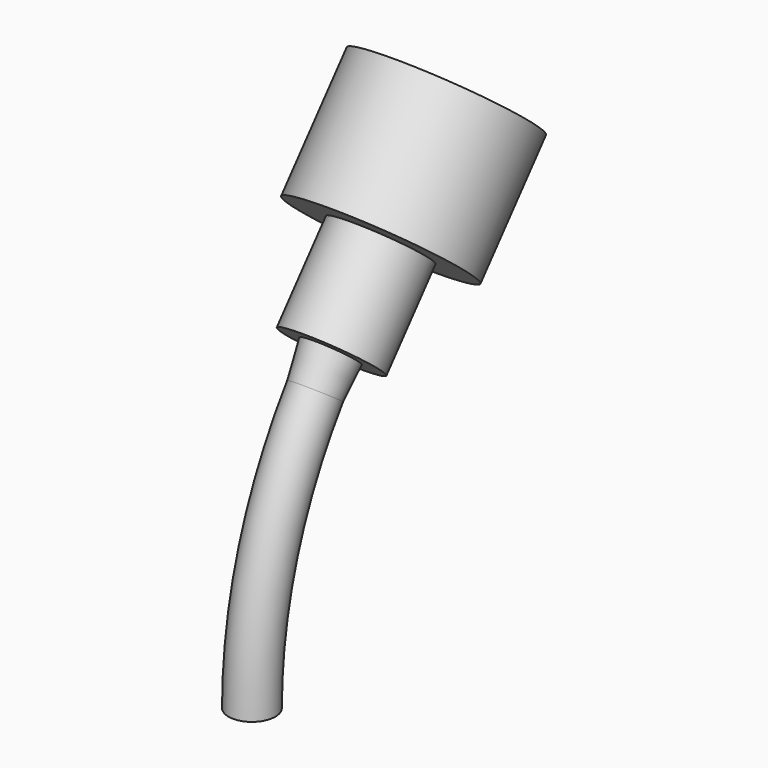
from build123d import *

# Parameters (mm, degrees)
CONE005_ROLL_ANGLE         = -35.5
BOX001027045026_W          = 10
BOX001027045026_H          = 24
BOX001027045026_DEPTH      = 22
BOX001027045026_ROLL_ANGLE = -35.5
BOX001027045025_W          = 10
BOX001027045025_H          = 24
BOX001027045025_DEPTH      = 22
TORUS004_R                 = 1.1
TORUS004_PITCH_ANGLE       = 90
CYLINDER131_R              = 4
CYLINDER131_DEPTH          = 6
CYLINDER131_ROLL_ANGLE     = -40
CYLINDER130_R              = 2.2
CYLINDER130_DEPTH          = 10
CYLINDER130_ROLL_ANGLE     = -40


with BuildPart() as cone005:
    # Cone005 → Cone005 (revolve)
    with BuildSketch(Plane.XZ):
        Polygon((0, 0), (1.1, 0), (1.3, 2), (0, 2), align=None)
    revolve(axis=Axis((0, 0, 0), (0, 0, 1)))


with BuildPart() as cone005_1:
    # Cone005 roll: moved
    add(cone005.part.rotate(Axis((0, 0, 0), (1, 0, 0)), CONE005_ROLL_ANGLE))


with BuildPart() as cone005_2:
    # Cone005 placement: moved
    add(cone005_1.part.moved(Location((0, 3.71769, 11.614059))))


with BuildPart() as cube079:
    # Box001027045026 → Box001027045026 (new body)
    with BuildSketch(Plane.XY):
        with Locations((5, 12)):
            Rectangle(BOX001027045026_W, BOX001027045026_H)
    extrude(amount=BOX001027045026_DEPTH)


with BuildPart() as cube079_1:
    # Box001027045026 roll: moved
    add(cube079.part.rotate(Axis((0, 0, 0), (1, 0, 0)), BOX001027045026_ROLL_ANGLE))


with BuildPart() as cube079_2:
    # Box001027045026 placement: moved
    add(cube079_1.part.moved(Location((-5, 0.461228, 13.936871))))


with BuildPart() as cube078:
    # Box001027045025 → Box001027045025 (new body)
    with BuildSketch(Plane(origin=(-5, -4, 0), x_dir=(1, 0, 0), z_dir=(0, 0, 1))):
        with Locations((5, 12)):
            Rectangle(BOX001027045025_W, BOX001027045025_H)
    extrude(amount=BOX001027045025_DEPTH)


with BuildPart() as cut071:
    # Torus004 → Torus004 (revolve)
    with BuildSketch(Plane.XZ):
        with Locations((20, 0)):
            Circle(TORUS004_R)
    revolve(axis=Axis((0, 0, 0), (0, 0, 1)))


with BuildPart() as cut071_1:
    # Torus004 pitch: moved
    add(cut071.part.rotate(Axis((0, 0, 0), (0, 1, 0)), TORUS004_PITCH_ANGLE))


with BuildPart() as cut071_2:
    # Torus004 placement: moved
    add(cut071_1.part.moved(Location((0, 20, 0))))

    # Common056: intersect Cube078
    add(cube078.part, mode=Mode.INTERSECT)

    # Cut071: cut Cube079
    add(cube079_2.part, mode=Mode.SUBTRACT)


with BuildPart() as cylinder189:
    # Cylinder131 → Cylinder131 (new body)
    with BuildSketch(Plane.XY):
        Circle(CYLINDER131_R)
    extrude(amount=CYLINDER131_DEPTH)


with BuildPart() as cylinder189_1:
    # Cylinder131 roll: moved
    add(cylinder189.part.rotate(Axis((0, 0, 0), (1, 0, 0)), CYLINDER131_ROLL_ANGLE))


with BuildPart() as cylinder189_2:
    # Cylinder131 placement: moved
    add(cylinder189_1.part.moved(Location((0, 7.571655, 16.302952))))


with BuildPart() as obj1:
    # Cylinder130 → Cylinder130 (new body)
    with BuildSketch(Plane.XY):
        Circle(CYLINDER130_R)
    extrude(amount=CYLINDER130_DEPTH)


with BuildPart() as obj1_1:
    # Cylinder130 roll: moved
    add(obj1.part.rotate(Axis((0, 0, 0), (1, 0, 0)), CYLINDER130_ROLL_ANGLE))


with BuildPart() as obj1_2:
    # Cylinder130 placement: moved
    add(obj1_1.part.moved(Location((0, 4.679111, 12.855752))))

    # Fusion112044: union Cone005, Cut071, Cylinder189
    add(cone005_2.part)
    add(cut071_2.part)
    add(cylinder189_2.part)


with BuildPart() as obj1_3:
    # Fusion112044 placement: moved
    add(obj1_2.part.moved(Location((0, 0, 22))))


solid = obj1_3.part
